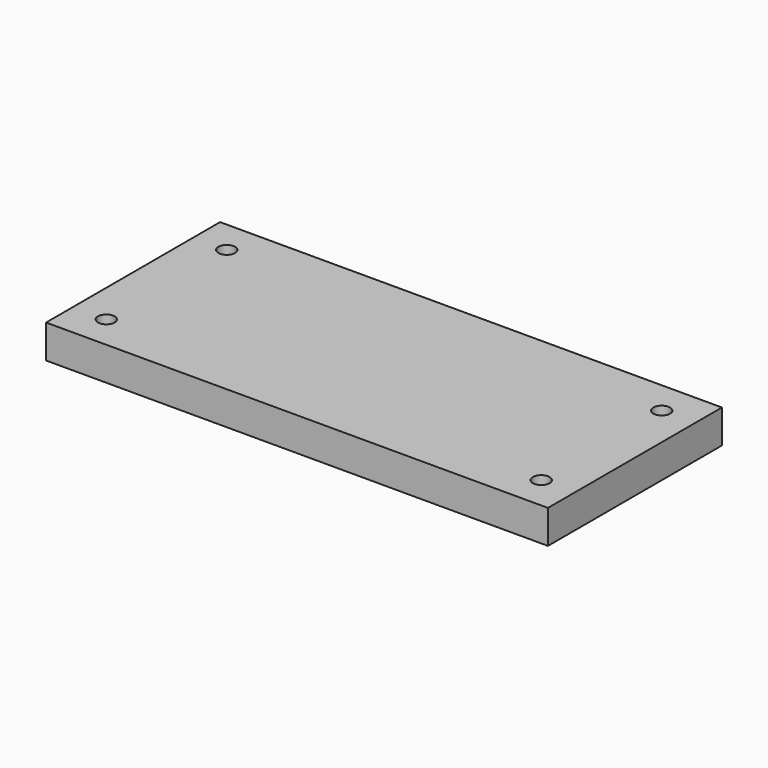
from build123d import *

# Parameters (mm, degrees)
SKETCH_W         = 150
SKETCH_H         = 65
SKETCH_W_2       = 101
SKETCH_H_2       = 51
PAD_DEPTH        = 1.5
SKETCH001_W      = 150
SKETCH001_H      = 65
PAD001_DEPTH     = 8.5
HOLE_D           = 5
HOLE_DEPTH       = 25
HOLE_CSINK_D     = 10
HOLE_CSINK_ANGLE = 90


with BuildPart() as part:
    # Sketch → Pad (new body)
    with BuildSketch(Plane.XY):
        Rectangle(SKETCH_W, SKETCH_H)
        Rectangle(SKETCH_W_2, SKETCH_H_2, mode=Mode.SUBTRACT)
    extrude(amount=PAD_DEPTH)

    # Sketch001 (on Face10 of Pad) → Pad001 (join)
    with BuildSketch(Plane.XY.offset(1.5)):
        Rectangle(SKETCH001_W, SKETCH001_H)
    extrude(amount=PAD001_DEPTH)

    # Hole
    with Locations(Plane(origin=(0, 0, 0), x_dir=(1, 0, 0), z_dir=(0, 0, -1))):
        with Locations((-65, 22.5), (-65, -22.5), (65, 22.5), (65, -22.5)):
            CounterSinkHole(HOLE_D / 2, HOLE_CSINK_D / 2, depth=HOLE_DEPTH, counter_sink_angle=HOLE_CSINK_ANGLE)


solid = part.part
